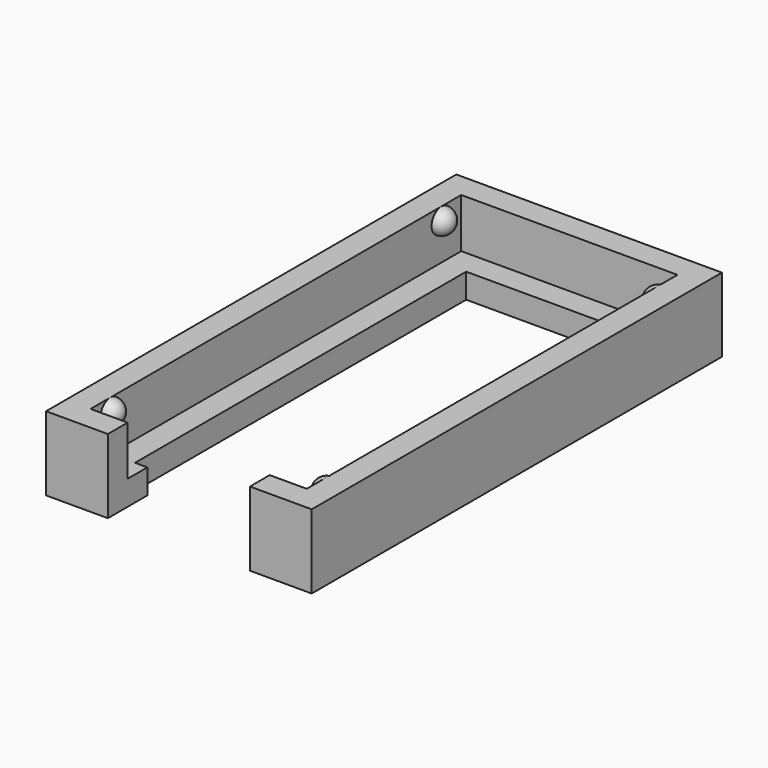
from build123d import *

# Parameters (mm, degrees)
SKETCH057_W         = 21.5
SKETCH057_H         = 41.5
PAD033_DEPTH        = 6
SKETCH056_W         = 17.5
SKETCH056_H         = 37.5
POCKET018_DEPTH     = 4
SKETCH059_W         = 13.5
SKETCH059_H         = 33.5
POCKET019_DEPTH     = 2.001
SKETCH058_W         = 11.5
SKETCH058_H         = 4
POCKET017_DEPTH     = 6.001
REVOLUTION003_ANGLE = 180
REVOLUTION004_ANGLE = 180


with BuildPart() as part:
    # Sketch057 → Pad033 (new body)
    with BuildSketch(Plane.XY):
        with Locations((10.75, 20.75)):
            Rectangle(SKETCH057_W, SKETCH057_H)
    extrude(amount=PAD033_DEPTH)

    # Sketch056 (on Face6 of Pad033) → Pocket018 (cut)
    with BuildSketch(Plane.XY.offset(6)):
        with Locations((10.75, 20.75)):
            Rectangle(SKETCH056_W, SKETCH056_H)
    extrude(amount=-POCKET018_DEPTH, mode=Mode.SUBTRACT)

    # Sketch059 (on Face11 of Pocket018) → Pocket019 (cut, through all)
    with BuildSketch(Plane.XY.offset(2)):
        with Locations((10.75, 20.75)):
            Rectangle(SKETCH059_W, SKETCH059_H)
    extrude(amount=-POCKET019_DEPTH, mode=Mode.SUBTRACT)

    # Sketch058 (on Face5 of Pocket019) → Pocket017 (cut, through all)
    with BuildSketch(Plane.XY.offset(6)):
        with Locations((10.75, 2)):
            Rectangle(SKETCH058_W, SKETCH058_H)
    extrude(amount=-POCKET017_DEPTH, mode=Mode.SUBTRACT)

    # Sketch060 (on Face20 of Pocket017) → Revolution003 (revolve)
    with BuildSketch(Plane.YZ.offset(2)):
        with BuildLine():
            ThreePointArc((5, 5), (4, 6), (3, 5))
            Line((3, 5), (5, 5))
        make_face()
        with BuildLine():
            ThreePointArc((38.5, 5), (37.5, 6), (36.5, 5))
            Line((36.5, 5), (38.5, 5))
        make_face()
    revolve(axis=Axis((2, 5, 5), (0, 1, 0)), revolution_arc=REVOLUTION003_ANGLE)

    # Sketch061 (on Face19 of Revolution003) → Revolution004 (revolve)
    with BuildSketch(Plane(origin=(19.5, 0, 0), x_dir=(0, -1, 0), z_dir=(-1, 0, 0))):
        with BuildLine():
            ThreePointArc((-36.5, 5), (-37.5, 6), (-38.5, 5))
            Line((-38.5, 5), (-36.5, 5))
        make_face()
        with BuildLine():
            ThreePointArc((-3, 5), (-4, 6), (-5, 5))
            Line((-5, 5), (-3, 5))
        make_face()
    revolve(axis=Axis((19.5, 36.5, 5), (0, -1, 0)), revolution_arc=REVOLUTION004_ANGLE)


solid = part.part
